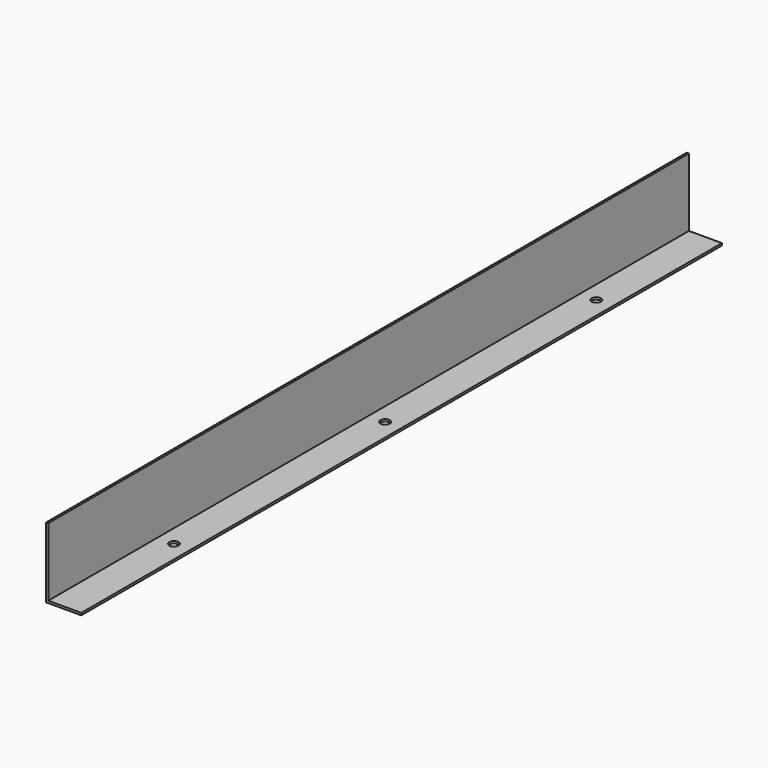
from build123d import *

# Parameters (mm, degrees)
F1_DEPTH = 1155.7
F3_D     = 13.49248


with BuildPart() as f1:
    # F0 (on Front) → F1 (new body)
    with BuildSketch(Plane.XZ):
        Polygon((0, 101.6), (0, 0), (50.8, 0), (50.8, 3.175), (3.175, 3.175), (3.175, 101.6), align=None)
    extrude(amount=F1_DEPTH)

    # F3 (through all)
    with Locations(Plane.XY.offset(3.175)):
        with Locations((26.9875, -577.85), (26.9875, -196.85), (26.9875, -958.85)):
            Hole(F3_D / 2)


solid = f1.part
